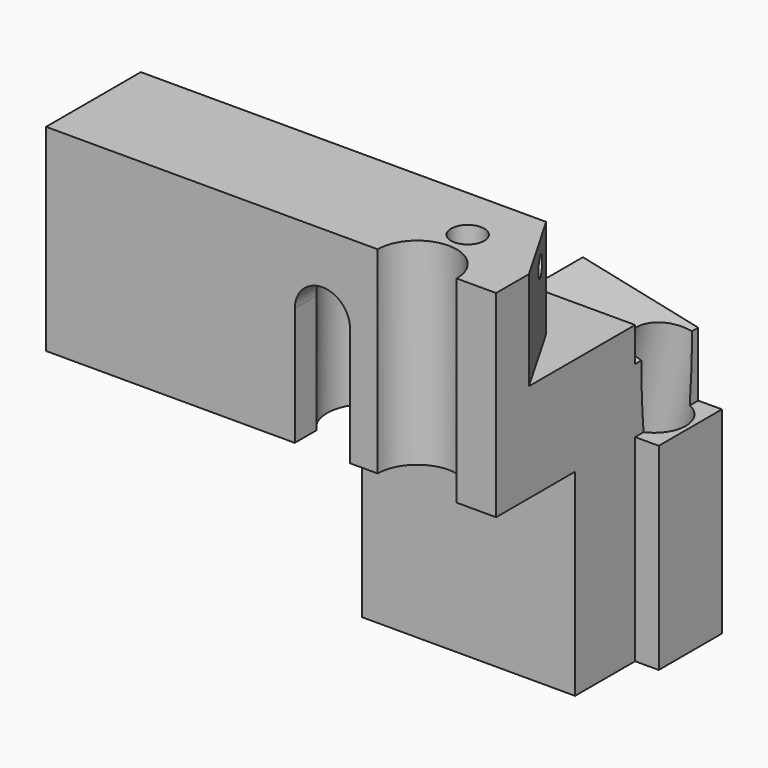
from build123d import *

# Parameters (mm, degrees)
F0_W      = 25
F0_H      = 25
F1_DEPTH  = 30
F3_DEPTH  = 25.001
F4_R      = 2.1
F5_DEPTH  = 25.001
F6_R      = 5
F7_DEPTH  = 22
F9_DEPTH  = 7
F10_R     = 2.6
F11_DEPTH = 15
F14_W     = 30
F14_H     = 12.5
F15_DEPTH = 25
F16_DEPTH = 7
F18_DEPTH = 10
F20_DEPTH = 10
F22_D     = 8
F24_DEPTH = 12.5
F25_W     = 9.5
F25_H     = 25
F26_DEPTH = 3
F28_D     = 4.2
F28_DEPTH = 15
F28_TIP   = 1.2618073
F31_D     = 2.5
F31_DEPTH = 8
F31_TIP   = 0.7510757738


with BuildPart() as f1:
    # F0 (on Right) → F1 (new body, symmetric)
    with BuildSketch(Plane.YZ):
        Rectangle(F0_W, F0_H)
    extrude(amount=F1_DEPTH, both=True)

    # F2 (on face) → F3 (cut, through all)
    with BuildSketch(Plane.XY.offset(12.5)):
        with BuildLine():
            Line((12, -12.5), (22, -12.5))
            ThreePointArc((22, -12.5), (17, -7.5), (12, -12.5))
        make_face()
    extrude(amount=-F3_DEPTH, mode=Mode.SUBTRACT)

    # F4 (on face) → F5 (cut, through all)
    with BuildSketch(Plane.XY.offset(12.5)):
        with Locations((17, -4.5)):
            Circle(F4_R)
    extrude(amount=-F5_DEPTH, mode=Mode.SUBTRACT)

    # F6 (on face) → F7 (cut)
    with BuildSketch(Plane(origin=(0, 0, -12.5), x_dir=(1, 0, 0), z_dir=(0, 0, -1))):
        with Locations((5, 5.5)):
            Circle(F6_R)
    extrude(amount=-F7_DEPTH, mode=Mode.SUBTRACT)

    # F8 (on face) → F9 (cut)
    with BuildSketch(Plane.XZ.offset(12.5)):
        with BuildLine():
            Line((1.5, -12.5), (8.5, -12.5))
            Line((8.5, -12.5), (8.5, 2.5))
            ThreePointArc((8.5, 2.5), (5, 6), (1.5, 2.5))
            Line((1.5, 2.5), (1.5, -12.5))
        make_face()
    extrude(amount=-F9_DEPTH, mode=Mode.SUBTRACT)

    # F10 (on face) → F11 (cut)
    with BuildSketch(Plane(origin=(0, 0, -12.5), x_dir=(1, 0, 0), z_dir=(0, 0, -1))):
        with Locations((17, 4.5)):
            Circle(F10_R)
    extrude(amount=-F11_DEPTH, mode=Mode.SUBTRACT)


with BuildPart() as f12_1:
    # F12: copy of F1
    add(f1.part)


with BuildPart() as f1_1:
    add(f1.part)

    # F14 (on face) → F15 (join)
    with BuildSketch(Plane(origin=(0, 0, -12.5), x_dir=(1, 0, 0), z_dir=(0, 0, -1))):
        with Locations((15, -6.25)):
            Rectangle(F14_W, F14_H)
    extrude(amount=F15_DEPTH)

    # F16 (add): a face of the model
    f16_faces = [f1_1.faces().sort_by_distance(p)[0] for p in [
        (5, 12.5, -8.3333333333),
    ]]
    extrude(f16_faces, amount=F16_DEPTH)

    # F17 (on face) → F18 (cut)
    with BuildSketch(Plane(origin=(0, 19.5, 0), x_dir=(-1, 0, 0), z_dir=(0, 1, 0))):
        Polygon((-30, -5), (-6.4768494526, 0), (30, 0), (30, 12.5), (-30, 12.5), align=None)
    extrude(amount=-F18_DEPTH, mode=Mode.SUBTRACT)

    # F19 (on face) → F20 (cut)
    with BuildSketch(Plane(origin=(0, 19.5, 0), x_dir=(-1, 0, 0), z_dir=(0, 1, 0))):
        Polygon((30, -1.2575895653), (-12.3933431868, -1.2575895653), (-4.6897810382, -37.5), (0, -37.5), (0, -12.5), (30, -12.5), align=None)
        Polygon((-12.3933431868, 5.6717685307), (-12.3933431868, -1.2575895653), (-6.4768494526, 0), (30, 0), (30, 5.6717685307), align=None)
        Polygon((-6.4768494526, 0), (-12.3933431868, -1.2575895653), (30, -1.2575895653), (30, 0), align=None)
    extrude(amount=-F20_DEPTH, mode=Mode.SUBTRACT)

    # F22 (through all)
    with Locations(Plane(origin=(0.2799765277, 0, 1.317186002), x_dir=(0.9781476007, 0, -0.2079116908), z_dir=(0.2079116908, 0, 0.9781476007))):
        with Locations((27.3839864761, 14.5)):
            Hole(F22_D / 2)

    # F23 (on face) → F24 (cut)
    with BuildSketch(Plane.XY.offset(12.5)):
        Polygon((21.3397459622, 2.5), (30, -12.5), (30, 9.5), (17.2982940778, 9.5), align=None)
        Polygon((-30, 2.5), (21.3397459622, 2.5), (17.2982940778, 9.5), (-30, 9.5), align=None)
    extrude(amount=-F24_DEPTH, mode=Mode.SUBTRACT)

    # F25 (on face) → F26 (cut)
    with BuildSketch(Plane.YZ.offset(30)):
        with BuildLine():
            Line((-12.5, 0), (-12.5, -12.5))
            Line((-12.5, -12.5), (0, -12.5))
            Line((0, -12.5), (9.5, -12.5))
            Line((9.5, -12.5), (19.5, -12.5))
            Line((19.5, -12.5), (19.5, -5))
            Line((19.5, -5), (17.1457513111, -5))
            add(Edge.make_bspline(
                [(14.5, -9.8097343447), (16.011857892, -9.8097343447), (17.1457513111, -5)],
                knots=[3.1415926536, 3.1415926536, 3.1415926536, 3.8643269014, 3.8643269014, 3.8643269014], degree=2, weights=[1, 0.9354143467, 1]))
            add(Edge.make_bspline(
                [(11.8542486889, -5), (12.988142108, -9.8097343447), (14.5, -9.8097343447)],
                knots=[2.4188584058, 2.4188584058, 2.4188584058, 3.1415926536, 3.1415926536, 3.1415926536], degree=2, weights=[1, 0.9354143467, 1]))
            Line((11.8542486889, -5), (9.5, -5))
            Line((9.5, -5), (9.5, 0))
            Line((9.5, 0), (-12.5, 0))
        make_face()
        with BuildLine():
            Line((-12.5, 12.5), (-12.5, 0))
            Line((-12.5, 0), (9.5, 0))
            Line((9.5, 0), (9.5, -5))
            Line((9.5, -5), (11.8542486889, -5))
            add(Edge.make_bspline(
                [(11.8542486889, -5), (12.988142108, -9.8097343447), (14.5, -9.8097343447)],
                knots=[2.4188584058, 2.4188584058, 2.4188584058, 3.1415926536, 3.1415926536, 3.1415926536], degree=2, weights=[1, 0.9354143467, 1]))
            add(Edge.make_bspline(
                [(14.5, -9.8097343447), (16.011857892, -9.8097343447), (17.1457513111, -5)],
                knots=[3.1415926536, 3.1415926536, 3.1415926536, 3.8643269014, 3.8643269014, 3.8643269014], degree=2, weights=[1, 0.9354143467, 1]))
            Line((17.1457513111, -5), (19.5, -5))
            Line((19.5, -5), (19.5, 12.5))
            Line((19.5, 12.5), (-12.5, 12.5))
        make_face()
        with Locations((4.75, -25)):
            Rectangle(F25_W, F25_H)
    extrude(amount=-F26_DEPTH, mode=Mode.SUBTRACT)

    # F28
    with Locations(Plane(origin=(12.1133666591, 0, -2.5747755673), x_dir=(0, -1, 0), z_dir=(-0.9781476007, 0, 0.2079116908))):
        with Locations((-14.5, -7.7054747223), (-14.5, -17.7054747223), (-14.5, -27.7054747223)):
            Hole(F28_D / 2, depth=F28_DEPTH)
            with Locations((0, 0, -(F28_DEPTH + F28_TIP / 2))):  # 118° drill point
                Cone(0, F28_D / 2, F28_TIP, mode=Mode.SUBTRACT)

    # F31
    with Locations(Plane(origin=(17.0873412263, 9.8653810568, 0), x_dir=(-0.5, 0.8660254038, 0), z_dir=(0.8660254038, 0.5, 0))):
        with Locations((-12.397114317, 9.5)):
            Hole(F31_D / 2, depth=F31_DEPTH)
            with Locations((0, 0, -(F31_DEPTH + F31_TIP / 2))):  # 118° drill point
                Cone(0, F31_D / 2, F31_TIP, mode=Mode.SUBTRACT)


solid = f1_1.part
